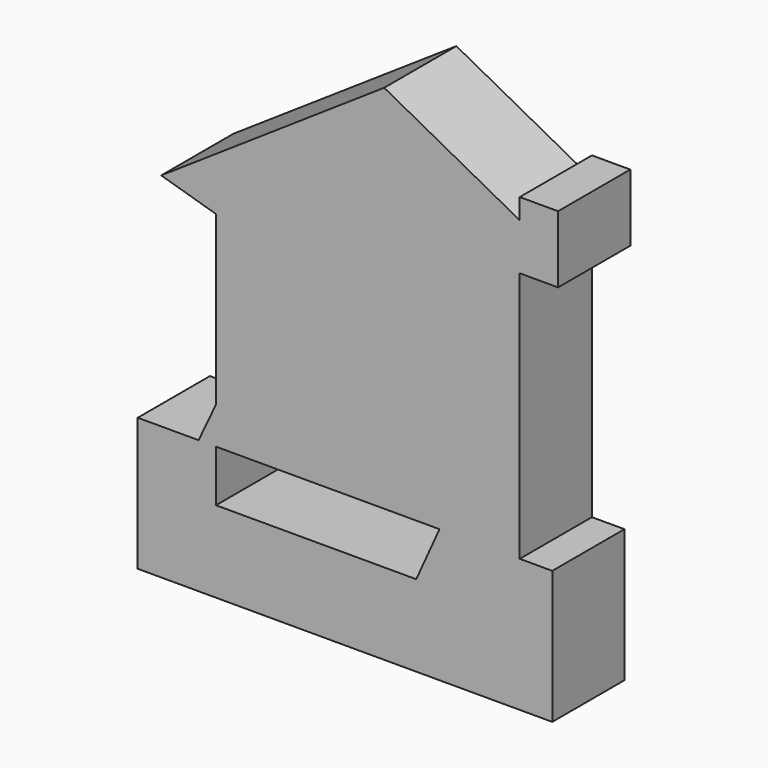
from build123d import *

# Parameters (mm, degrees)
F1_DEPTH = 25.4


with BuildPart() as f1:
    # F0 (on Front) → F1 (new body)
    with BuildSketch(Plane.XZ):
        Polygon((-33.9528769255, 40.0564680563), (-33.9528769255, 53.1810894608), (18.2133984662, 53.1810894608), (51.5383630991, 65.2996533445), (51.5383630991, 66.3159769478), (13.3911538869, 86.7411494255), (-49.376770854, 44.6101650596), align=None)
        Polygon((18.2133984662, 53.1810894608), (-33.9528769255, 53.1810894608), (-33.9528769255, 40.0564680563), (-15.8423800021, 34.7095876932), (-14.4241497444, 34.3657573582), (45.7716546953, 19.7721160948), (28.9523048901, -17.5747666508), (51.5383630991, -17.5747666508), (51.5383630991, 53.1810894608), align=None)
        Polygon((51.5383630991, 65.2996533445), (18.2133984662, 53.1810894608), (51.5383630991, 53.1810894608), align=None)
        Polygon((-15.8423800021, 34.7095876932), (-33.9528769255, 40.0564680563), (-33.9528769255, -7.1603319994), (-14.4241497444, 34.3657573582), align=None)
        Polygon((51.5383630991, 65.2996533445), (51.5383630991, 53.1810894608), (62.3221695423, 53.1810894608), (62.3221695423, 72.0649734139), (51.5383630991, 72.0649734139), (51.5383630991, 66.3159769478), (52.6687689126, 65.7107234001), align=None)
        Polygon((51.5383630991, 66.3159769478), (51.5383630991, 65.2996533445), (52.6687689126, 65.7107234001), align=None)
        Polygon((-14.4241497444, 34.3657573582), (-33.9528769255, -7.1603319994), (-33.9528769255, -17.5747666508), (28.9523048901, -17.5747666508), (45.7716546953, 19.7721160948), align=None)
        Polygon((-33.9528769255, -17.5747666508), (-33.9528769255, -7.1603319994), (-38.8505365943, -17.5747666508), align=None)
        Polygon((60.6898404658, -17.5747666508), (51.5383630991, -17.5747666508), (51.5383630991, -32.0976935327), (22.4118343216, -32.0976935327), (15.7569888979, -46.8745864928), (-47.0071732998, -34.9191240966), (-38.8505365943, -17.5747666508), (-55.9755302966, -17.5747666508), (-55.9755302966, -55.0077706575), (60.6898404658, -55.0077706575), align=None)
        Polygon((51.5383630991, -32.0976935327), (51.5383630991, -17.5747666508), (28.9523048901, -17.5747666508), (22.4118343216, -32.0976935327), align=None)
        Polygon((-33.9528769255, -32.0976935327), (-33.9528769255, -17.5747666508), (-38.8505365943, -17.5747666508), (-47.0071732998, -34.9191240966), (15.7569888979, -46.8745864928), (22.4118343216, -32.0976935327), align=None)
    extrude(amount=F1_DEPTH)


solid = f1.part
